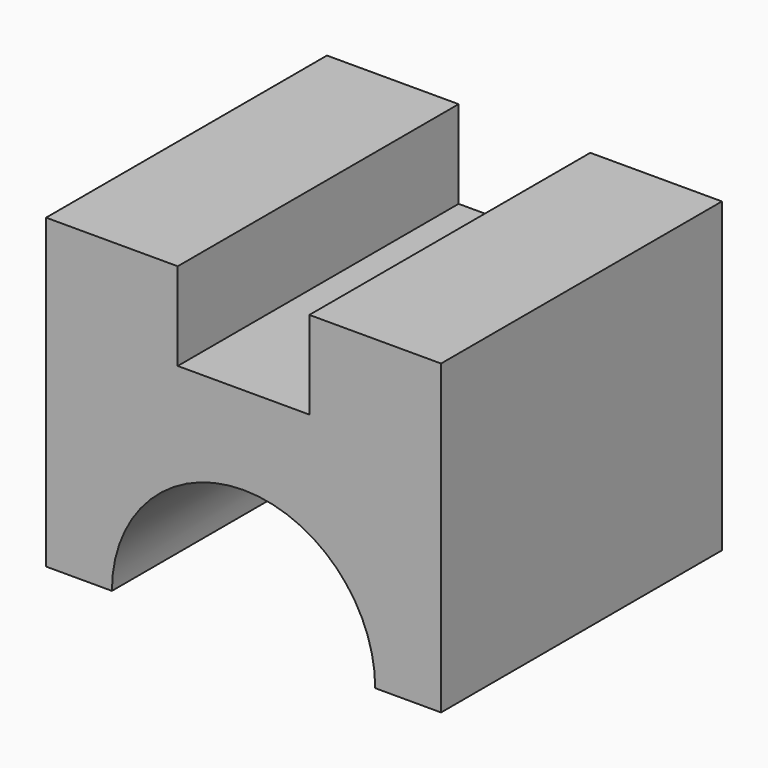
from build123d import *

# Parameters (mm, degrees)
F1_DEPTH = 40


with BuildPart() as f1:
    # F0 (on Front) → F1 (new body)
    with BuildSketch(Plane.XZ):
        with BuildLine():
            Line((6.492765, 26.425125), (-8.507235, 26.425125))
            Line((-8.507235, 26.425125), (-8.507235, -8.574875))
            Line((-8.507235, -8.574875), (-1.007235, -8.574875))
            ThreePointArc((-1.007235, -8.574875), (13.992765, 6.425125), (28.992765, -8.574875))
            Line((28.992765, -8.574875), (36.492765, -8.574875))
            Line((36.492765, -8.574875), (36.492765, 26.425125))
            Line((36.492765, 26.425125), (21.492765, 26.425125))
            Line((21.492765, 26.425125), (21.492765, 16.425125))
            Line((21.492765, 16.425125), (6.492765, 16.425125))
            Line((6.492765, 16.425125), (6.492765, 26.425125))
        make_face()
    extrude(amount=F1_DEPTH)


solid = f1.part
